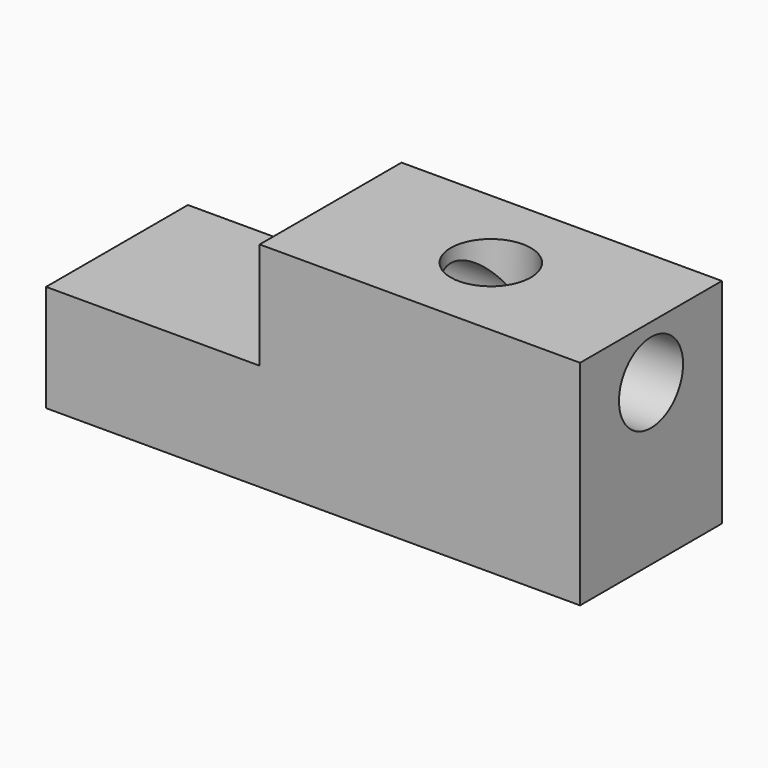
from build123d import *

# Parameters (mm, degrees)
F1_DEPTH = 42.164
F3_D     = 19.05
F5_D     = 19.05


with BuildPart() as f1:
    # F0 (on Front) → F1 (new body)
    with BuildSketch(Plane.XZ):
        Polygon((127, -80.199791), (50.8, -80.199791), (50.8, -105.599791), (0, -105.599791), (0, -130.999791), (127, -130.999791), align=None)
    extrude(amount=F1_DEPTH)

    # F3 (through all)
    with Locations(Plane(origin=(50.8, 0, 0), x_dir=(0, -1, 0), z_dir=(-1, 0, 0))):
        with Locations((21.082, -92.899791)):
            Hole(F3_D / 2)

    # F5 (through all)
    with Locations(Plane.XY.offset(-80.199791)):
        with Locations((88.9, -21.082)):
            Hole(F5_D / 2)


solid = f1.part
